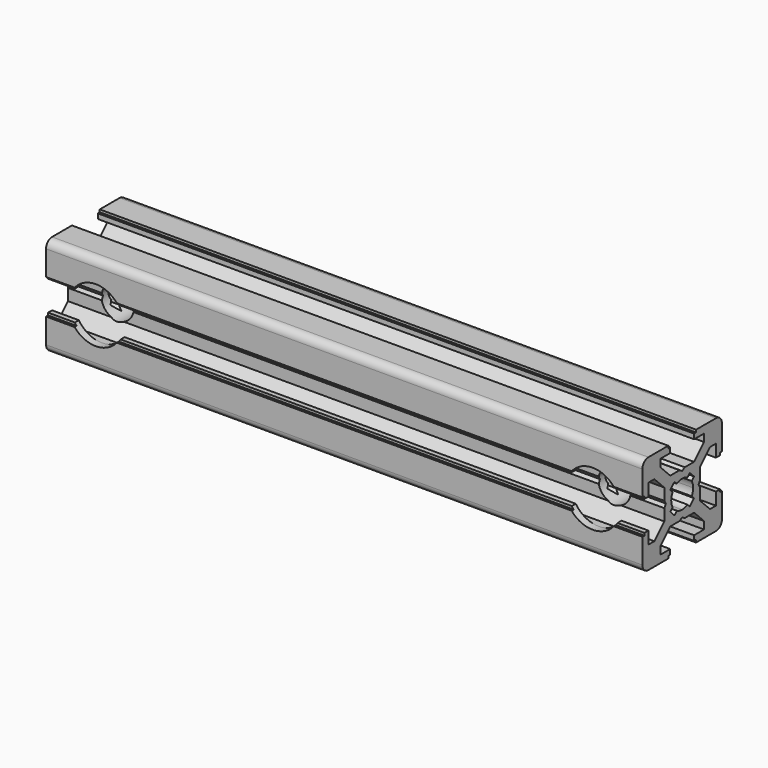
from build123d import *

# Parameters (mm, degrees)
PAD_DEPTH       = 120
SKETCH001_R     = 3.25
POCKET_DEPTH    = 21
SKETCH002_R     = 5.5
POCKET001_DEPTH = 2


with BuildPart() as part:
    # Sketch → Pad (new body)
    with BuildSketch(Plane.YZ):
        with BuildLine():
            Line((0, 4.1), (0.65, 4.5))
            Line((0.65, 4.5), (3, 4.5))
            Line((3, 4.5), (5.5, 7))
            Line((5.5, 7), (5.5, 8.5))
            Line((5.5, 8.5), (3, 8.5))
            Line((3, 8.5), (3, 9.5))
            Line((3, 9.5), (3.5, 9.5))
            Line((3.5, 9.5), (3.5, 10))
            Line((3.5, 10), (8.5, 10))
            ThreePointArc((10, 8.5), (9.56066, 9.56066), (8.5, 10))
            Line((10, 8.5), (10, 3.5))
            Line((10, 3.5), (9.5, 3.5))
            Line((9.5, 3.5), (9.5, 3))
            Line((9.5, 3), (8.5, 3))
            Line((8.5, 3), (8.5, 5.5))
            Line((8.5, 5.5), (7, 5.5))
            Line((7, 5.5), (4.5, 3))
            Line((4.5, 3), (4.5, 0.65))
            Line((4.5, 0.65), (4.1, 0))
            Line((4.5, -0.65), (4.1, 0))
            Line((4.5, -3), (4.5, -0.65))
            Line((7, -5.5), (4.5, -3))
            Line((8.5, -5.5), (7, -5.5))
            Line((8.5, -3), (8.5, -5.5))
            Line((9.5, -3), (8.5, -3))
            Line((9.5, -3.5), (9.5, -3))
            Line((10, -3.5), (9.5, -3.5))
            Line((10, -8.5), (10, -3.5))
            ThreePointArc((8.5, -10), (9.56066, -9.56066), (10, -8.5))
            Line((3.5, -10), (8.5, -10))
            Line((3.5, -9.5), (3.5, -10))
            Line((3, -9.5), (3.5, -9.5))
            Line((3, -8.5), (3, -9.5))
            Line((5.5, -8.5), (3, -8.5))
            Line((5.5, -7), (5.5, -8.5))
            Line((3, -4.5), (5.5, -7))
            Line((0.65, -4.5), (3, -4.5))
            Line((0, -4.1), (0.65, -4.5))
            Line((0, -4.1), (-0.65, -4.5))
            Line((-0.65, -4.5), (-3, -4.5))
            Line((-3, -4.5), (-5.5, -7))
            Line((-5.5, -7), (-5.5, -8.5))
            Line((-5.5, -8.5), (-3, -8.5))
            Line((-3, -8.5), (-3, -9.5))
            Line((-3, -9.5), (-3.5, -9.5))
            Line((-3.5, -9.5), (-3.5, -10))
            Line((-3.5, -10), (-8.5, -10))
            ThreePointArc((-10, -8.5), (-9.56066, -9.56066), (-8.5, -10))
            Line((-10, -8.5), (-10, -3.5))
            Line((-10, -3.5), (-9.5, -3.5))
            Line((-9.5, -3.5), (-9.5, -3))
            Line((-9.5, -3), (-8.5, -3))
            Line((-8.5, -3), (-8.5, -5.5))
            Line((-8.5, -5.5), (-7, -5.5))
            Line((-7, -5.5), (-4.5, -3))
            Line((-4.5, -3), (-4.5, -0.65))
            Line((-4.5, -0.65), (-4.1, 0))
            Line((-4.5, 0.65), (-4.1, 0))
            Line((-4.5, 3), (-4.5, 0.65))
            Line((-7, 5.5), (-4.5, 3))
            Line((-8.5, 5.5), (-7, 5.5))
            Line((-8.5, 3), (-8.5, 5.5))
            Line((-9.5, 3), (-8.5, 3))
            Line((-9.5, 3.5), (-9.5, 3))
            Line((-10, 3.5), (-9.5, 3.5))
            Line((-10, 8.5), (-10, 3.5))
            ThreePointArc((-8.5, 10), (-9.56066, 9.56066), (-10, 8.5))
            Line((-3.5, 10), (-8.5, 10))
            Line((-3.5, 9.5), (-3.5, 10))
            Line((-3, 9.5), (-3.5, 9.5))
            Line((-3, 8.5), (-3, 9.5))
            Line((-5.5, 8.5), (-3, 8.5))
            Line((-5.5, 7), (-5.5, 8.5))
            Line((-3, 4.5), (-5.5, 7))
            Line((-0.65, 4.5), (-3, 4.5))
            Line((0, 4.1), (-0.65, 4.5))
        make_face()
        with BuildLine():
            Line((1.340499, 2.401159), (1.923239, 2.983899))
            Line((1.923239, 2.983899), (2.983899, 1.923239))
            Line((2.983899, 1.923239), (2.401159, 1.340499))
            ThreePointArc((2.75, 0), (2.661361, 0.692573), (2.401159, 1.340499))
            ThreePointArc((2.401164, -1.34049), (2.661362, -0.692568), (2.75, 0))
            Line((2.983904, -1.92323), (2.401164, -1.34049))
            Line((1.923247, -2.983894), (2.983904, -1.92323))
            Line((1.340507, -2.401154), (1.923247, -2.983894))
            ThreePointArc((0, -2.75), (0.692577, -2.66136), (1.340507, -2.401154))
            ThreePointArc((-1.340507, -2.401154), (-0.692577, -2.66136), (0, -2.75))
            Line((-1.340507, -2.401154), (-1.923247, -2.983894))
            Line((-1.923247, -2.983894), (-2.983904, -1.92323))
            Line((-2.983904, -1.92323), (-2.401164, -1.34049))
            ThreePointArc((-2.75, 0), (-2.661362, -0.692568), (-2.401164, -1.34049))
            ThreePointArc((-2.401159, 1.340499), (-2.661361, 0.692572), (-2.75, 0))
            Line((-2.983899, 1.923239), (-2.401159, 1.340499))
            Line((-1.923239, 2.983899), (-2.983899, 1.923239))
            Line((-1.340499, 2.401159), (-1.923239, 2.983899))
            ThreePointArc((0, 2.75), (-0.692573, 2.661361), (-1.340499, 2.401159))
            ThreePointArc((1.340499, 2.401159), (0.692573, 2.661361), (0, 2.75))
        make_face(mode=Mode.SUBTRACT)
    extrude(amount=PAD_DEPTH)

    # Sketch001 → Pocket (cut)
    with BuildSketch(Plane.XZ.offset(10)):
        with Locations((10, 0)):
            Circle(SKETCH001_R)
        with Locations((110, 0)):
            Circle(SKETCH001_R)
    extrude(amount=-POCKET_DEPTH, mode=Mode.SUBTRACT)

    # Sketch002 → Pocket001 (cut)
    with BuildSketch(Plane.XZ.offset(10)):
        with Locations((10, 0)):
            Circle(SKETCH002_R)
        with Locations((110, 0)):
            Circle(SKETCH002_R)
    extrude(amount=-POCKET001_DEPTH, mode=Mode.SUBTRACT)


solid = part.part
